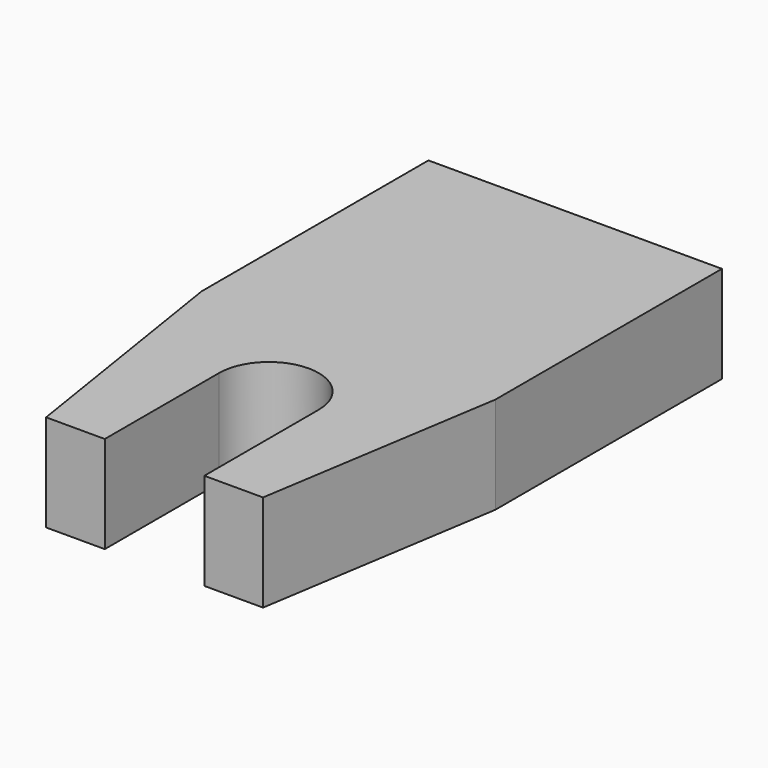
from build123d import *

# Parameters (mm, degrees)
F1_DEPTH = 19.304


with BuildPart() as f1:
    # F0 (on Top) → F1 (new body)
    with BuildSketch(Plane.XY):
        with BuildLine():
            Line((41.892705, 57.778093), (-16.527295, 57.778093))
            Line((-16.527295, 57.778093), (-16.527295, 1.390093))
            Line((-16.527295, 1.390093), (-8.907295, -46.869907))
            Line((-8.907295, -46.869907), (2.776705, -46.869907))
            Line((2.776705, -46.869907), (2.776705, -18.421907))
            ThreePointArc((2.776705, -18.421907), (12.682705, -8.515907), (22.588705, -18.421907))
            Line((22.588705, -18.421907), (22.588705, -46.869907))
            Line((22.588705, -46.869907), (34.272705, -46.869907))
            Line((34.272705, -46.869907), (41.892705, 1.390093))
            Line((41.892705, 1.390093), (41.892705, 57.778093))
        make_face()
    extrude(amount=F1_DEPTH)


solid = f1.part
